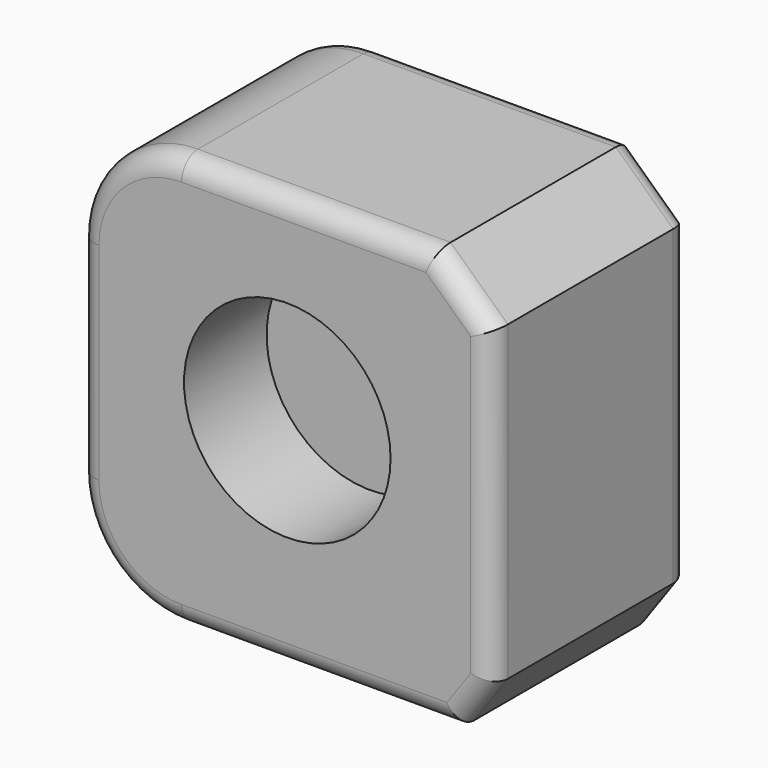
from build123d import *

# Parameters (mm, degrees)
F1_DEPTH = 60
F2_R     = 5
F3_R     = 25
F4_DEPTH = 25


with BuildPart() as f1:
    # F0 (on Front) → F1 (new body)
    with BuildSketch(Plane.XZ):
        with BuildLine():
            Line((33.469399, 53.402335), (-27.650935, 53.402335))
            ThreePointArc((-27.650935, 53.402335), (-45.328605, 46.080005), (-52.650935, 28.402335))
            Line((-52.650935, 28.402335), (-52.650935, -21.597665))
            ThreePointArc((-52.650935, -21.597665), (-45.328605, -39.275334), (-27.650935, -46.597665))
            Line((-27.650935, -46.597665), (39.180679, -46.597665))
            Line((39.180679, -46.597665), (47.349065, -35.087663))
            Line((47.349065, -35.087663), (47.349065, 40.44798))
            Line((47.349065, 40.44798), (33.469399, 53.402335))
        make_face()
    extrude(amount=F1_DEPTH)

    # F2
    f2_edges = [f1.edges().sort_by_distance(p)[0] for p in [
        (40.409232, -60, 46.925158),
        (2.909232, -60, 53.402335),
        (-45.328605, -60, 46.080005),
        (-52.650935, -60, 3.402335),
        (-45.328605, -60, -39.275334),
        (5.764872, -60, -46.597665),
        (43.264872, -60, -40.842664),
        (47.349065, -60, 2.680159),
        (40.409232, 0, 46.925158),
        (2.909232, 0, 53.402335),
        (-45.328605, 0, 46.080005),
        (-52.650935, 0, 3.402335),
        (-45.328605, 0, -39.275334),
        (5.764872, 0, -46.597665),
        (43.264872, 0, -40.842664),
        (47.349065, 0, 2.680159),
    ]]
    fillet(f2_edges, radius=F2_R)

    # F3 (on face) → F4 (cut)
    with BuildSketch(Plane.XZ.offset(60)):
        with Locations((-2.058923, 5.945201)):
            Circle(F3_R)
    extrude(amount=-F4_DEPTH, mode=Mode.SUBTRACT)


solid = f1.part
